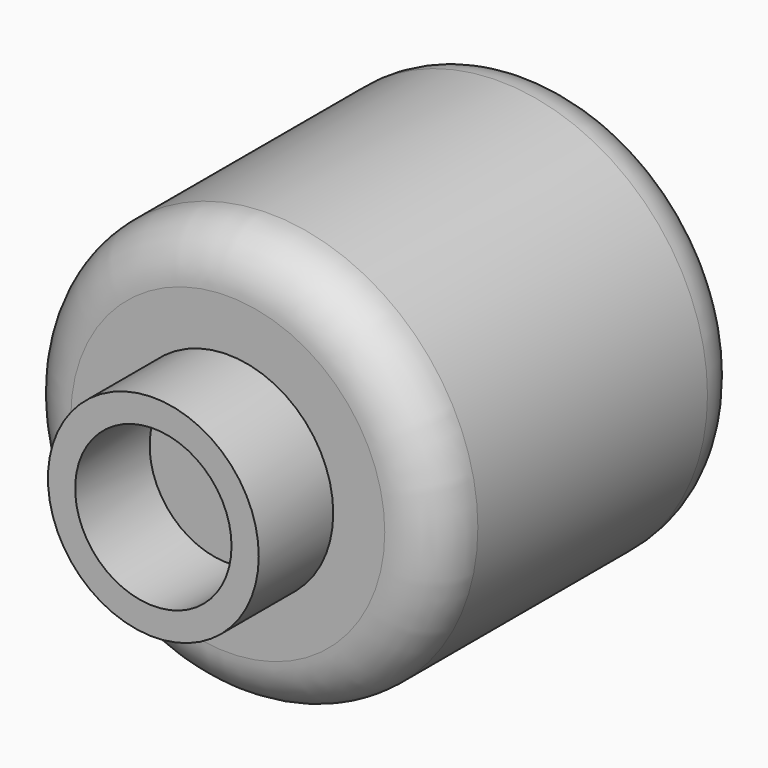
from build123d import *

# Parameters (mm, degrees)
F0_R      = 20.498108569
F1_DEPTH  = 38.354
F2_R      = 5.08
F3_R      = 10.3545358817
F4_DEPTH  = 9.144
F5_R      = 7.6794076655
F4_FACE_R = 10.3545358817
F6_DEPTH  = 20.066
F7_R      = 2.4445782071
F7_R_2    = 4.7073560898
F8_DEPTH  = 51.308


with BuildPart() as f1:
    # F0 (on Front) → F1 (new body)
    with BuildSketch(Plane.XZ):
        Circle(F0_R)
    extrude(amount=-F1_DEPTH)

    # F2
    f2_edges = [f1.edges().sort_by_distance(p)[0] for p in [
        (-20.498109, 0, 0),
        (-20.498109, 38.354, 0),
    ]]
    fillet(f2_edges, radius=F2_R)

    # F3 (on Front) → F4 (join)
    with BuildSketch(Plane.XZ):
        Circle(F3_R)
    extrude(amount=F4_DEPTH)

    # F5 (on Front) + F4_face (on face) → F6 (cut)
    with BuildSketch(Plane.XZ):
        Circle(F5_R)
    with BuildSketch(Plane.XZ.offset(9.144)):
        Circle(F4_FACE_R)
    extrude(amount=F6_DEPTH, mode=Mode.SUBTRACT)

    # F7 (on Right) → F8 (cut)
    with BuildSketch(Plane.YZ):
        with Locations((23.5781669617, 9.1338856146)):
            Circle(F7_R)
        with Locations((22.0204498619, -5.4520084523)):
            Circle(F7_R_2)
        with BuildLine():
            add(Edge.make_bspline(
                [(14.2318671569, 10.691601783), (11.6649759051, 8.7850122349), (5.8643220815, -13.5165030483), (18.8512904338, 7.7362532922), (15.4725782315, 11.6131549519), (14.2318671569, 10.691601783)],
                knots=[0, 0, 0, 0, 0.4118458542, 0.8009336344, 1, 1, 1, 1], degree=3))
        make_face()
    extrude(amount=-F8_DEPTH, mode=Mode.SUBTRACT)


solid = f1.part
